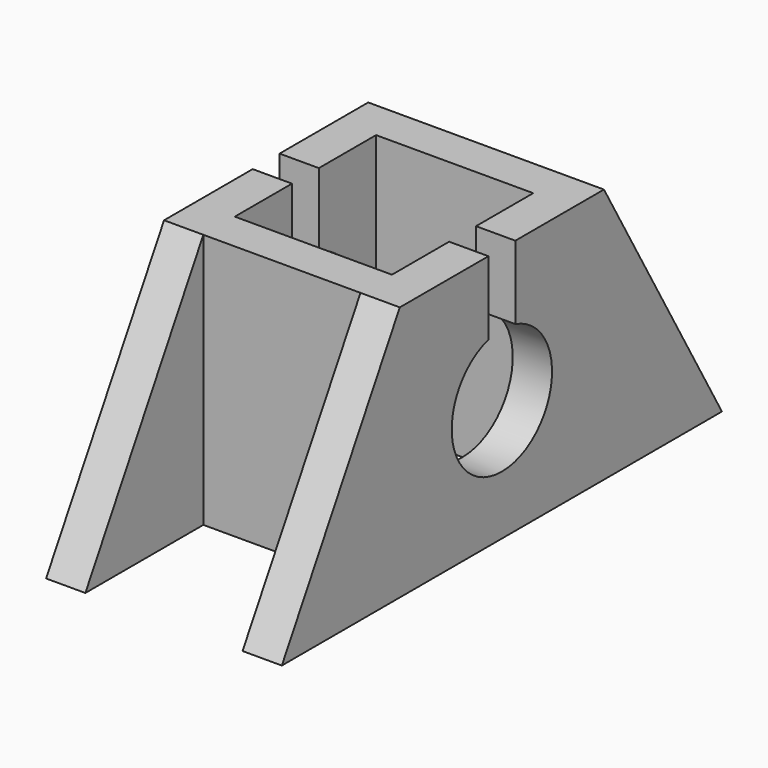
from build123d import *

# Parameters (mm, degrees)
F1_DEPTH = 60
F2_W     = 40
F2_H     = 51.5072302302
F3_DEPTH = 126
F4_W     = 40
F4_H     = 44.9444650053
F5_DEPTH = 92
F7_DEPTH = 76


with BuildPart() as f1:
    # F0 (on Right) → F1 (new body)
    with BuildSketch(Plane.YZ):
        Polygon((-70, 0), (0, 0), (70, 0), (32.4722325027, 65), (0, 65), (-32.4722325027, 65), align=None)
    extrude(amount=F1_DEPTH)

    # F2 (on face) → F3 (cut)
    with BuildSketch(Plane.XY.offset(65)):
        with Locations((30, -58.2258476178)):
            Rectangle(F2_W, F2_H)
        with Locations((30, 58.2258476178)):
            Rectangle(F2_W, F2_H)
    extrude(amount=-F3_DEPTH, mode=Mode.SUBTRACT)

    # F4 (on face) → F5 (cut)
    with BuildSketch(Plane.XY.offset(65)):
        with Locations((30, 0)):
            Rectangle(F4_W, F4_H)
    extrude(amount=-F5_DEPTH, mode=Mode.SUBTRACT)

    # F6 (on face) → F7 (cut)
    with BuildSketch(Plane.YZ.offset(60)):
        with BuildLine():
            Line((-4.2762281873, 65), (-4.2762281873, 46.3116985224))
            ThreePointArc((-4.2762281873, 46.3116985224), (0, 14.9908759852), (4.2762281873, 46.3116985224))
            Line((4.2762281873, 46.3116985224), (4.2762281873, 65))
            Line((4.2762281873, 65), (-4.2762281873, 65))
        make_face()
    extrude(amount=-F7_DEPTH, mode=Mode.SUBTRACT)


solid = f1.part
